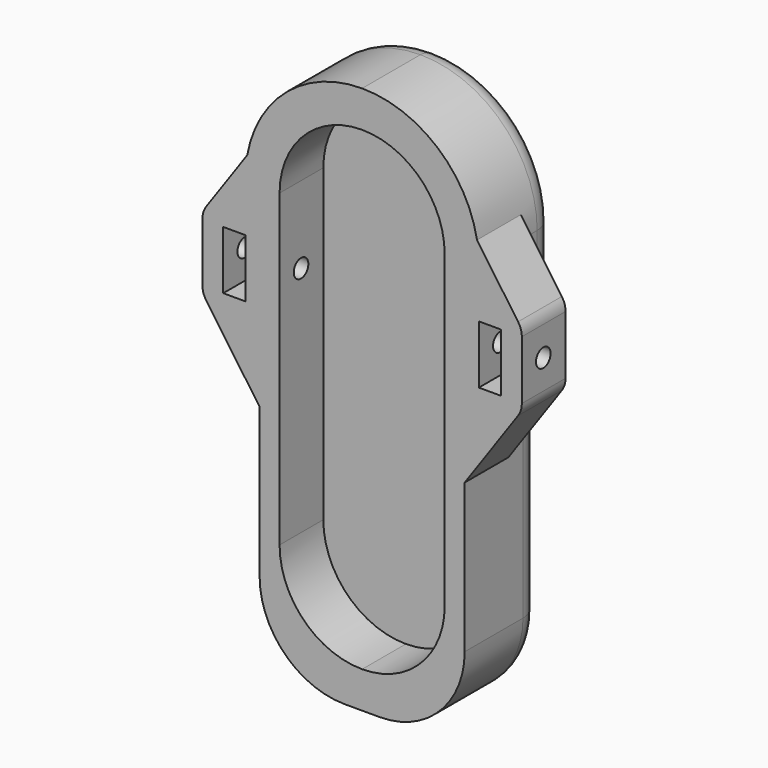
from build123d import *

# Parameters (mm, degrees)
PAD015_DEPTH         = 21
SKETCH049_W          = 71.2318
SKETCH049_H          = 140.2182
POCKET025_DEPTH      = 21.001
POCKET025_DEPTH_BACK = 0.001
SKETCH048_W          = 4.8625
SKETCH048_H          = 12.8
PAD019_DEPTH         = 12
SKETCH050_R          = 2
POCKET027_DEPTH      = 35.0494
POCKET027_DEPTH_BACK = 35.0494
FILLET015_R          = 5
POCKET014_DEPTH      = 12


with BuildPart() as part:
    # Sketch045 → Pad015 (new body)
    with BuildSketch(Plane.XZ):
        with BuildLine():
            Line((-22.5044, 0), (22.5044, 0))
            Line((22.5044, 0), (22.5044, 63.215202))
            ThreePointArc((22.75823, 64.3128), (22.568684, 63.778485), (22.5044, 63.215202))
            Line((25.36207, 69.641402), (22.75823, 64.3128))
            ThreePointArc((25.36207, 69.641402), (25.551616, 70.175717), (25.6159, 70.739))
            Line((25.6159, 120.2182), (25.6159, 70.739))
            Line((-25.6159, 120.2182), (25.6159, 120.2182))
            Line((-25.6159, 70.739), (-25.6159, 120.2182))
            ThreePointArc((-25.6159, 70.739), (-25.551616, 70.175717), (-25.36207, 69.641402))
            Line((-25.36207, 69.641402), (-22.75823, 64.3128))
            ThreePointArc((-22.5044, 63.215202), (-22.568684, 63.778485), (-22.75823, 64.3128))
            Line((-22.5044, 63.215202), (-22.5044, 0))
        make_face()
    extrude(amount=-PAD015_DEPTH)

    # Sketch049 → Pocket025 (cut, two sides)
    with BuildSketch(Plane.XZ) as pocket025_sk:
        with Locations((0, 60.1091)):
            Rectangle(SKETCH049_W, SKETCH049_H)
        with BuildLine():
            ThreePointArc((-22.5044, 18.6944), (-17.028937, 5.475463), (-3.81, 0))
            Line((-3.81, 0), (3.81, 0))
            ThreePointArc((3.81, 0), (17.028937, 5.475463), (22.5044, 18.6944))
            Line((22.5044, 18.6944), (22.5044, 59.3128))
            Line((22.5044, 59.3128), (25.6159, 59.3128))
            Line((25.6159, 59.3128), (25.6159, 94.6023))
            ThreePointArc((25.6159, 94.6023), (18.113177, 112.715477), (0, 120.2182))
            ThreePointArc((0, 120.2182), (-18.113177, 112.715477), (-25.6159, 94.6023))
            Line((-25.6159, 94.6023), (-25.6159, 59.3128))
            Line((-25.6159, 59.3128), (-22.5044, 59.3128))
            Line((-22.5044, 59.3128), (-22.5044, 18.6944))
        make_face(mode=Mode.SUBTRACT)
    extrude(amount=-POCKET025_DEPTH, mode=Mode.SUBTRACT)
    extrude(pocket025_sk.sketch, amount=POCKET025_DEPTH_BACK, mode=Mode.SUBTRACT)

    # Sketch048 → Pad019 (new body)
    with BuildSketch(Plane.XZ):
        with BuildLine():
            Line((35.0484, 70.739), (35.0484, 83.639))
            ThreePointArc((35.0484, 83.639), (34.836886, 85.013226), (34.221925, 86.260244))
            Line((22.5044, 102.994604), (34.221925, 86.260244))
            Line((22.5044, 102.994604), (22.5044, 51.383396))
            Line((22.5044, 51.383396), (34.221925, 68.117756))
            ThreePointArc((34.221925, 68.117756), (34.836886, 69.364774), (35.0484, 70.739))
        make_face()
        with Locations((28.04715, 77.139)):
            Rectangle(SKETCH048_W, SKETCH048_H, mode=Mode.SUBTRACT)
    pad019 = extrude(amount=-PAD019_DEPTH)

    # Mirrored003: Pad019 across Sketch048 V_Axis
    add(pad019.mirror(Plane(origin=(0, 0, 0), x_dir=(0, -1, 0), z_dir=(1, 0, 0))))

    # Sketch050 → Pocket027 (cut, two sides)
    with BuildSketch(Plane.YZ) as pocket027_sk:
        with Locations((5.8875, 77.189)):
            Circle(SKETCH050_R)
    extrude(amount=-POCKET027_DEPTH, mode=Mode.SUBTRACT)
    extrude(pocket027_sk.sketch, amount=POCKET027_DEPTH_BACK, mode=Mode.SUBTRACT)

    # Fillet015
    fillet015_edges = [part.edges().sort_by_distance(p)[0] for p in [
        (-18.113177, 21, 112.715477),
    ]]
    fillet(fillet015_edges, radius=FILLET015_R)

    # Sketch029 → Pocket014 (cut)
    with BuildSketch(Plane.XZ):
        with BuildLine():
            ThreePointArc((-18.1159, 26.1159), (-12.809876, 13.306024), (0, 8))
            ThreePointArc((0, 8), (12.809876, 13.306024), (18.1159, 26.1159))
            Line((18.1159, 26.1159), (18.1159, 94.1023))
            ThreePointArc((18.1159, 94.1023), (12.809876, 106.912176), (0, 112.2182))
            ThreePointArc((0, 112.2182), (-12.809876, 106.912176), (-18.1159, 94.1023))
            Line((-18.1159, 26.1159), (-18.1159, 94.1023))
        make_face()
    extrude(amount=-POCKET014_DEPTH, mode=Mode.SUBTRACT)


solid = part.part
